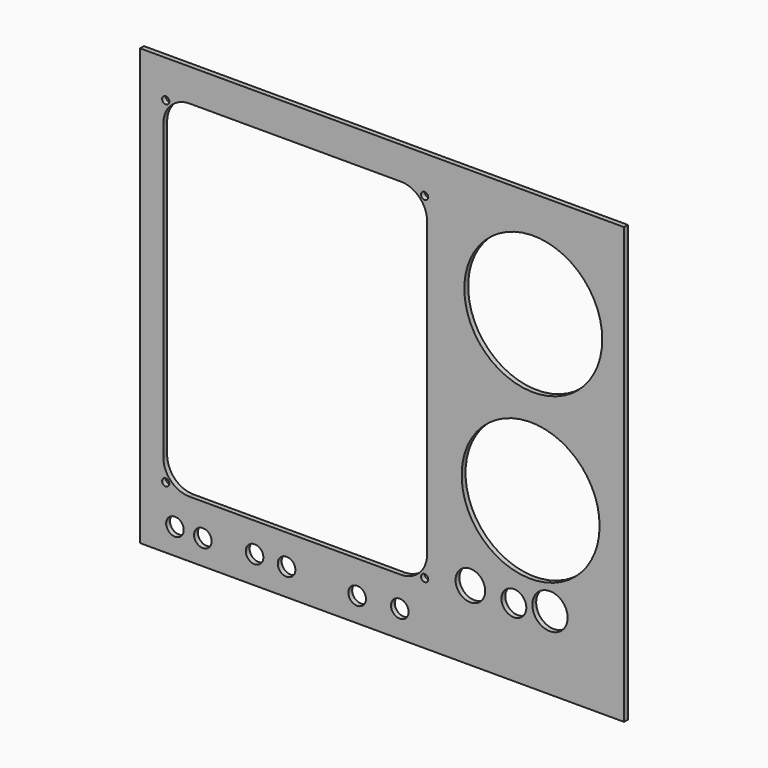
from build123d import *

# Parameters (mm, degrees)
F0_W     = 200
F0_H     = 180
F0_R     = 3.638003
F0_R_2   = 1.5
F0_R_3   = 6.124689
F0_R_4   = 5.147329
F0_R_5   = 7.29891
F0_R_6   = 28.5
F1_DEPTH = 2


with BuildPart() as f1:
    # F0 (on Front) → F1 (new body)
    with BuildSketch(Plane.XZ):
        with Locations((19.448517, -18.096756)):
            Rectangle(F0_W, F0_H)
        with Locations((-66.135943, -97.424306)):
            Circle(F0_R, mode=Mode.SUBTRACT)
        with Locations((-54.606952, -97.826131)):
            Circle(F0_R, mode=Mode.SUBTRACT)
        with Locations((-33.244397, -96.745618)):
            Circle(F0_R, mode=Mode.SUBTRACT)
        with Locations((-69.957681, -82.537731)):
            Circle(F0_R_2, mode=Mode.SUBTRACT)
        with Locations((-20.01996, -96.997119)):
            Circle(F0_R, mode=Mode.SUBTRACT)
        with Locations((9.14162, -98.073356)):
            Circle(F0_R, mode=Mode.SUBTRACT)
        with Locations((26.774205, -97.052328)):
            Circle(F0_R, mode=Mode.SUBTRACT)
        with Locations((37.042319, -82.537731)):
            Circle(F0_R_2, mode=Mode.SUBTRACT)
        with Locations((55.935778, -79.139642)):
            Circle(F0_R_3, mode=Mode.SUBTRACT)
        with Locations((73.90745, -79.716161)):
            Circle(F0_R_4, mode=Mode.SUBTRACT)
        with Locations((88.827334, -77.78278)):
            Circle(F0_R_5, mode=Mode.SUBTRACT)
        with Locations((80.836624, -40.107682)):
            Circle(F0_R_6, mode=Mode.SUBTRACT)
        with BuildLine():
            ThreePointArc((-70.957681, 47.612269), (-67.779789, 55.284377), (-60.107681, 58.462269))
            Line((-60.107681, 58.462269), (27.192319, 58.462269))
            ThreePointArc((27.192319, 58.462269), (34.864428, 55.284377), (38.042319, 47.612269))
            Line((38.042319, 47.612269), (38.042319, -73.687731))
            ThreePointArc((38.042319, -73.687731), (34.864428, -81.35984), (27.192319, -84.537731))
            Line((27.192319, -84.537731), (-60.107681, -84.537731))
            ThreePointArc((-60.107681, -84.537731), (-67.779789, -81.35984), (-70.957681, -73.687731))
            Line((-70.957681, -73.687731), (-70.957681, 47.612269))
        make_face(mode=Mode.SUBTRACT)
        with Locations((-69.957681, 56.462269)):
            Circle(F0_R_2, mode=Mode.SUBTRACT)
        with Locations((37.042319, 56.462269)):
            Circle(F0_R_2, mode=Mode.SUBTRACT)
        with Locations((81.931614, 28.076585)):
            Circle(F0_R_6, mode=Mode.SUBTRACT)
    extrude(amount=F1_DEPTH)


solid = f1.part
